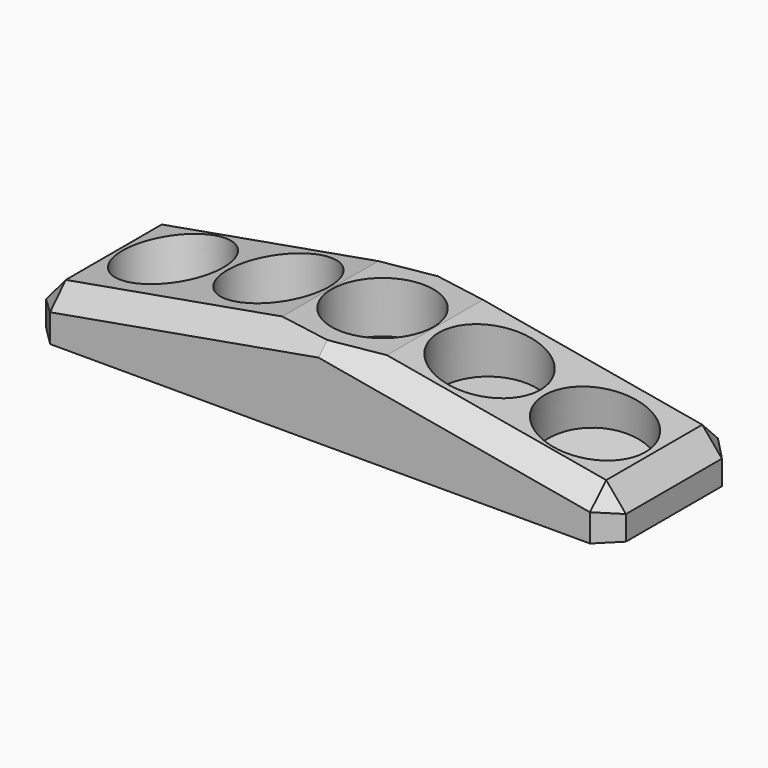
from build123d import *

# Parameters (mm, degrees)
BOX003_W                    = 40
BOX003_H                    = 40
BOX003_DEPTH                = 10
CYLINDER014_R               = 10.2
CYLINDER014_DEPTH           = 20
CYLINDER014_ROLL_ANGLE      = 7.107076
CYLINDER014_PITCH_ANGLE     = 7.053022
CYLINDER014_PLACEMENT_ANGLE = 0.438549
CYLINDER013_R               = 10.2
CYLINDER013_DEPTH           = 20
CYLINDER013_ROLL_ANGLE      = 3.540025
CYLINDER013_PITCH_ANGLE     = 3.533287
CYLINDER013_PLACEMENT_ANGLE = 0.109222
CYLINDER012_R               = 10.2
CYLINDER012_DEPTH           = 20
CYLINDER011_R               = 10.2
CYLINDER011_DEPTH           = 20
CYLINDER011_ROLL_ANGLE      = -3.540025
CYLINDER011_PITCH_ANGLE     = -3.533287
CYLINDER011_PLACEMENT_ANGLE = 0.109222
CYLINDER010_R               = 10.2
CYLINDER010_DEPTH           = 20
CYLINDER010_ROLL_ANGLE      = -7.107076
CYLINDER010_PITCH_ANGLE     = -7.053022
CYLINDER010_PLACEMENT_ANGLE = 0.438549
BOX002_W                    = 116
BOX002_H                    = 32
BOX002_DEPTH                = 14
BOX002_PITCH_ANGLE          = 10
BOX001_W                    = 116
BOX001_H                    = 32
BOX001_DEPTH                = 14
BOX001_PITCH_ANGLE          = -10
BOX_W                       = 116
BOX_H                       = 32
BOX_DEPTH                   = 20
CHAMFER_SIZE                = 4


with BuildPart() as cube003:
    # Box003 → Box003 (new body)
    with BuildSketch(Plane(origin=(20, -20, 10.3), x_dir=(1, 0, 0), z_dir=(0, 0, 1))):
        with Locations((20, 20)):
            Rectangle(BOX003_W, BOX003_H)
    extrude(amount=BOX003_DEPTH)


with BuildPart() as cylinder014:
    # Cylinder014 → Cylinder014 (new body)
    with BuildSketch(Plane.XY):
        Circle(CYLINDER014_R)
    extrude(amount=CYLINDER014_DEPTH)


with BuildPart() as cylinder014_1:
    # Cylinder014 roll: moved
    add(cylinder014.part.rotate(Axis((0, 0, 0), (1, 0, 0)), CYLINDER014_ROLL_ANGLE))


with BuildPart() as cylinder014_2:
    # Cylinder014 pitch: moved
    add(cylinder014_1.part.rotate(Axis((0, 0, 0), (0, 1, 0)), CYLINDER014_PITCH_ANGLE))


with BuildPart() as cylinder014_3:
    # Cylinder014 placement: moved
    add(cylinder014_2.part.moved(Location((84, 0, -4))).rotate(Axis((84, 0, -4), (0, 0, 1)), CYLINDER014_PLACEMENT_ANGLE))


with BuildPart() as cylinder013:
    # Cylinder013 → Cylinder013 (new body)
    with BuildSketch(Plane.XY):
        Circle(CYLINDER013_R)
    extrude(amount=CYLINDER013_DEPTH)


with BuildPart() as cylinder013_1:
    # Cylinder013 roll: moved
    add(cylinder013.part.rotate(Axis((0, 0, 0), (1, 0, 0)), CYLINDER013_ROLL_ANGLE))


with BuildPart() as cylinder013_2:
    # Cylinder013 pitch: moved
    add(cylinder013_1.part.rotate(Axis((0, 0, 0), (0, 1, 0)), CYLINDER013_PITCH_ANGLE))


with BuildPart() as cylinder013_3:
    # Cylinder013 placement: moved
    add(cylinder013_2.part.moved(Location((63, 0, -1))).rotate(Axis((63, 0, -1), (0, 0, 1)), CYLINDER013_PLACEMENT_ANGLE))


with BuildPart() as cylinder012:
    # Cylinder012 → Cylinder012 (new body)
    with BuildSketch(Plane(origin=(41.7, 0, 0), x_dir=(1, 0, 0), z_dir=(0, 0, 1))):
        Circle(CYLINDER012_R)
    extrude(amount=CYLINDER012_DEPTH)


with BuildPart() as cylinder011:
    # Cylinder011 → Cylinder011 (new body)
    with BuildSketch(Plane.XY):
        Circle(CYLINDER011_R)
    extrude(amount=CYLINDER011_DEPTH)


with BuildPart() as cylinder011_1:
    # Cylinder011 roll: moved
    add(cylinder011.part.rotate(Axis((0, 0, 0), (1, 0, 0)), CYLINDER011_ROLL_ANGLE))


with BuildPart() as cylinder011_2:
    # Cylinder011 pitch: moved
    add(cylinder011_1.part.rotate(Axis((0, 0, 0), (0, 1, 0)), CYLINDER011_PITCH_ANGLE))


with BuildPart() as cylinder011_3:
    # Cylinder011 placement: moved
    add(cylinder011_2.part.moved(Location((21, 0, -1))).rotate(Axis((21, 0, -1), (0, 0, 1)), CYLINDER011_PLACEMENT_ANGLE))


with BuildPart() as cylinder010:
    # Cylinder010 → Cylinder010 (new body)
    with BuildSketch(Plane.XY):
        Circle(CYLINDER010_R)
    extrude(amount=CYLINDER010_DEPTH)


with BuildPart() as cylinder010_1:
    # Cylinder010 roll: moved
    add(cylinder010.part.rotate(Axis((0, 0, 0), (1, 0, 0)), CYLINDER010_ROLL_ANGLE))


with BuildPart() as cylinder010_2:
    # Cylinder010 pitch: moved
    add(cylinder010_1.part.rotate(Axis((0, 0, 0), (0, 1, 0)), CYLINDER010_PITCH_ANGLE))


with BuildPart() as cylinder010_3:
    # Cylinder010 placement: moved
    add(cylinder010_2.part.moved(Location((0, 0, -4))).rotate(Axis((0, 0, -4), (0, 0, 1)), CYLINDER010_PLACEMENT_ANGLE))


with BuildPart() as cube002:
    # Box002 → Box002 (new body)
    with BuildSketch(Plane.XY):
        with Locations((58, 16)):
            Rectangle(BOX002_W, BOX002_H)
    extrude(amount=BOX002_DEPTH)


with BuildPart() as cube002_1:
    # Box002 pitch: moved
    add(cube002.part.rotate(Axis((0, 0, 0), (0, 1, 0)), BOX002_PITCH_ANGLE))


with BuildPart() as cube002_2:
    # Box002 placement: moved
    add(cube002_1.part.moved(Location((0, -16, 19.5))))


with BuildPart() as cube001:
    # Box001 → Box001 (new body)
    with BuildSketch(Plane.XY):
        with Locations((58, 16)):
            Rectangle(BOX001_W, BOX001_H)
    extrude(amount=BOX001_DEPTH)


with BuildPart() as cube001_1:
    # Box001 pitch: moved
    add(cube001.part.rotate(Axis((0, 0, 0), (0, 1, 0)), BOX001_PITCH_ANGLE))


with BuildPart() as cube001_2:
    # Box001 placement: moved
    add(cube001_1.part.moved(Location((-30, -16, -0.5))))


with BuildPart() as cut011:
    # Box → Box (new body)
    with BuildSketch(Plane(origin=(-16, -16, -7), x_dir=(1, 0, 0), z_dir=(0, 0, 1))):
        with Locations((58, 16)):
            Rectangle(BOX_W, BOX_H)
    extrude(amount=BOX_DEPTH)

    # Cut005: cut Cube001
    add(cube001_2.part, mode=Mode.SUBTRACT)

    # Cut006: cut Cube002
    add(cube002_2.part, mode=Mode.SUBTRACT)

    # Chamfer
    chamfer_edges = [cut011.edges().sort_by_distance(p)[0] for p in [
        (-16, -16, -2.515711),
        (-16, 0, 1.968578),
        (-16, 16, -2.515711),
        (100, -16, -2.566349),
        (70.856409, -16, 7.006103),
        (12.856409, -16, 7.056741),
        (12.856409, 16, 7.056741),
        (100, 16, -2.566349),
        (70.856409, 16, 7.006103),
        (100, 0, 1.867302),
    ]]
    chamfer(chamfer_edges, length=CHAMFER_SIZE)

    # Cut: cut Cylinder010
    add(cylinder010_3.part, mode=Mode.SUBTRACT)

    # Cut007: cut Cylinder011
    add(cylinder011_3.part, mode=Mode.SUBTRACT)

    # Cut008: cut Cylinder012
    add(cylinder012.part, mode=Mode.SUBTRACT)

    # Cut009: cut Cylinder013
    add(cylinder013_3.part, mode=Mode.SUBTRACT)

    # Cut010: cut Cylinder014
    add(cylinder014_3.part, mode=Mode.SUBTRACT)

    # Cut011: cut Cube003
    add(cube003.part, mode=Mode.SUBTRACT)


solid = cut011.part
